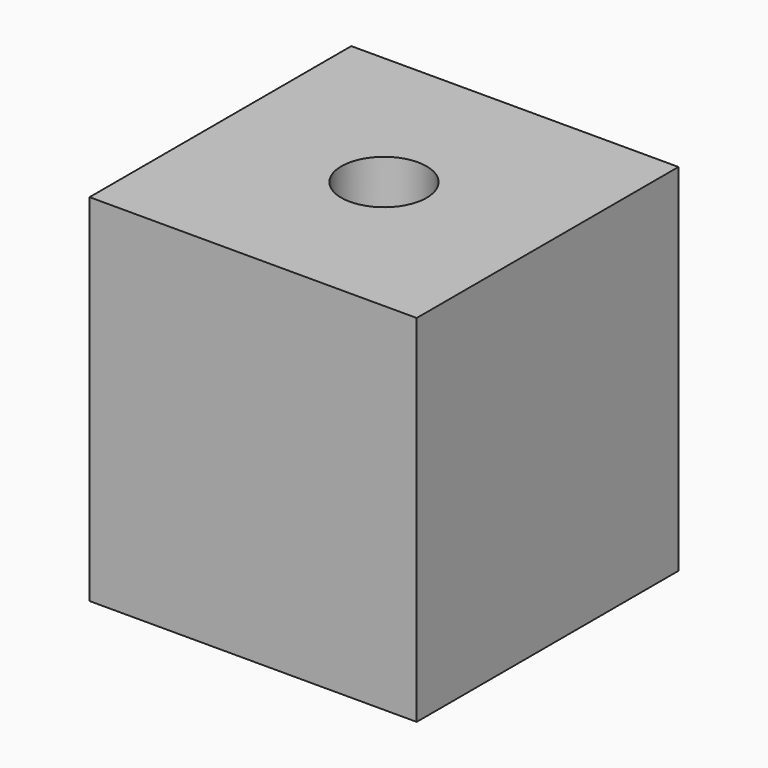
from build123d import *

# Parameters (mm, degrees)
F0_W     = 11.5
F0_H     = 11.5
F1_DEPTH = 2.5
F2_W     = 11.5
F2_H     = 11.5
F2_R     = 1.5
F3_DEPTH = 10


with BuildPart() as f1:
    # F0 (on Top) → F1 (new body)
    with BuildSketch(Plane.XY):
        Rectangle(F0_W, F0_H)
        Polygon((0, 3.175426), (2.75, 1.587713), (2.75, -1.587713), (0, -3.175426), (-2.75, -1.587713), (-2.75, 1.587713), align=None, mode=Mode.SUBTRACT)
    extrude(amount=F1_DEPTH)

    # F2 (on face) → F3 (join)
    with BuildSketch(Plane.XY.offset(2.5)):
        Rectangle(F2_W, F2_H)
        Circle(F2_R, mode=Mode.SUBTRACT)
    extrude(amount=F3_DEPTH)


solid = f1.part
